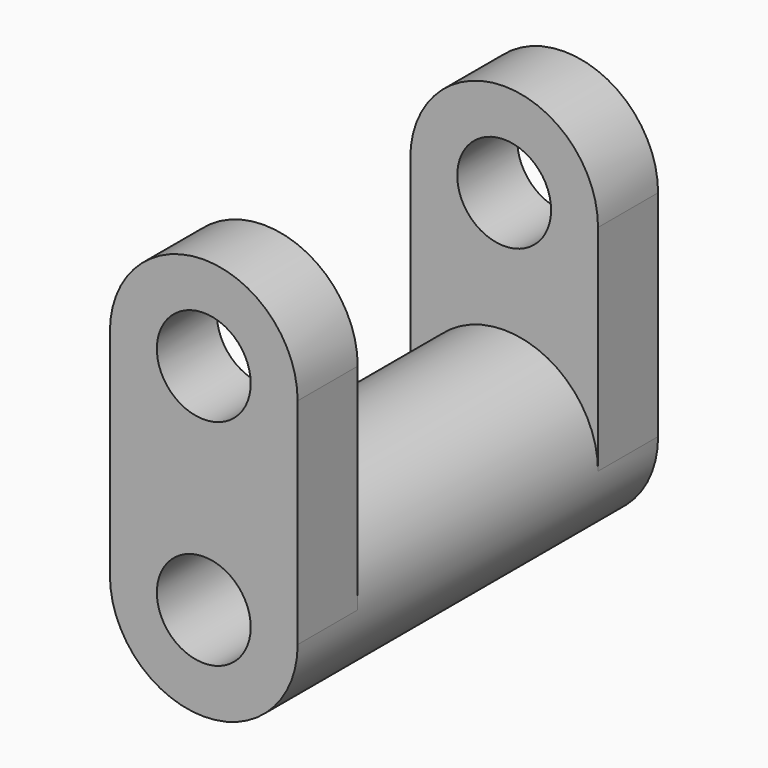
from build123d import *

# Parameters (mm, degrees)
F0_R     = 31.75
F0_R_2   = 15.875
F1_DEPTH = 76.2
F3_DEPTH = 25.4
F5_R     = 15.875
F6_DEPTH = 152.401


with BuildPart() as f1:
    # F0 (on Front) → F1 (new body, symmetric)
    with BuildSketch(Plane.XZ):
        Circle(F0_R)
        Circle(F0_R_2, mode=Mode.SUBTRACT)
    extrude(amount=F1_DEPTH, both=True)

    # F2 (on face) → F3 (join)
    with BuildSketch(Plane.XZ.offset(76.2)):
        with BuildLine():
            ThreePointArc((31.75, 72.5937485695), (0, 104.3437485695), (-31.75, 72.5937485695))
            Line((-31.75, 72.5937485695), (31.75, 72.5937485695))
        make_face()
        with BuildLine():
            Line((31.75, 72.5937485695), (-31.75, 72.5937485695))
            ThreePointArc((-31.75, 72.5937485695), (0, 40.8437485695), (31.75, 72.5937485695))
        make_face()
        with BuildLine():
            Line((-31.75, 72.5937485695), (-31.75, 0))
            ThreePointArc((-31.75, 0), (0, 31.75), (31.75, 0))
            Line((31.75, 0), (31.75, 72.5937485695))
            ThreePointArc((31.75, 72.5937485695), (0, 40.8437485695), (-31.75, 72.5937485695))
        make_face()
    extrude(amount=-F3_DEPTH)

    # F4: F1 across plane


with BuildPart() as f1_1:
    add(f1.part)
    add(f1.part.mirror(Plane.XZ))

    # F5 (on face) → F6 (cut, through all)
    with BuildSketch(Plane.XZ.offset(76.2)):
        with Locations((0, 72.5937485695)):
            Circle(F5_R)
    extrude(amount=-F6_DEPTH, mode=Mode.SUBTRACT)


solid = f1_1.part
